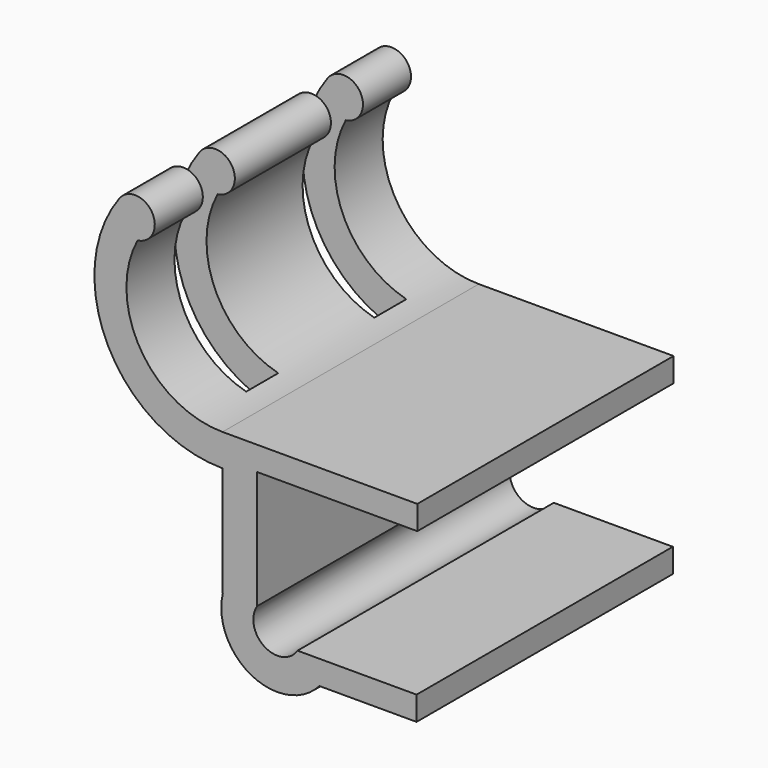
from build123d import *

# Parameters (mm, degrees)
F0_W     = 20
F0_H     = 3
F1_DEPTH = 40
F2_W     = 21.25
F2_H     = 5
F3_DEPTH = 50


with BuildPart() as f1:
    # F0 (on Front) → F1 (new body)
    with BuildSketch(Plane.XZ):
        with Locations((-17.720056, 19.5)):
            Rectangle(F0_W, F0_H)
        Polygon((-27.720056, 18), (-27.720056, 21), (-32.048252, 21), (-32.048252, 17), (-32.048252, 3.254739), (-32.00801, 3.254739), (-27.720056, 3.254739), align=None)
        with BuildLine():
            Line((-32.048252, 17), (-32.048252, 21))
            ThreePointArc((-32.048252, 21), (-42.326909, 26.807327), (-42.65698, 38.608466))
            ThreePointArc((-42.65698, 38.608466), (-40.843318, 42.27556), (-44.92868, 42.491816))
            ThreePointArc((-44.92868, 42.491816), (-46.328817, 25.784359), (-32.048252, 17))
        make_face()
        with BuildLine():
            ThreePointArc((-22.679552, 0), (-26.827174, -0.892883), (-27.720056, 3.254739))
            Line((-27.720056, 3.254739), (-32.00801, 3.254739))
            ThreePointArc((-32.00801, 3.254739), (-28.422472, -4.58668), (-19.947428, -3))
            Line((-19.947428, -3), (-22.679552, -3))
            Line((-22.679552, -3), (-22.679552, 0))
        make_face()
        Polygon((-7.813289, 0), (-22.679552, 0), (-22.679552, -3), (-19.947428, -3), (-7.813289, -3), align=None)
    extrude(amount=F1_DEPTH)

    # F2 (on Top) → F3 (cut)
    with BuildSketch(Plane.XY):
        with Locations((-45.717653, -10)):
            Rectangle(F2_W, F2_H)
        with Locations((-45.717653, -30)):
            Rectangle(F2_W, F2_H)
    extrude(amount=F3_DEPTH, mode=Mode.SUBTRACT)


solid = f1.part
